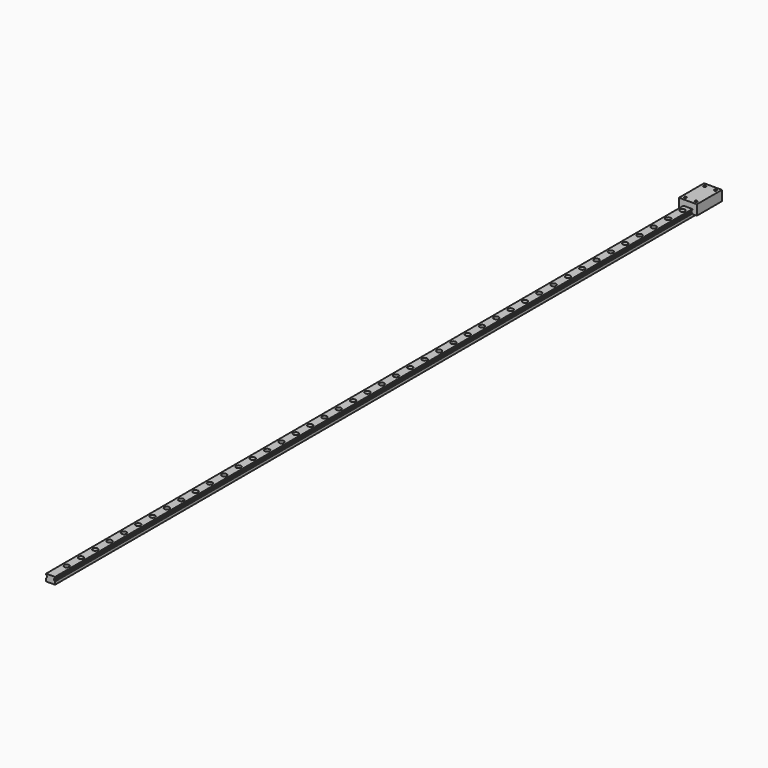
from build123d import *

# Parameters (mm, degrees)
F1_DEPTH       = 1850
F3_D           = 6.6
F3_CBORE_D     = 11.25
F3_CBORE_DEPTH = 6
F4_DEPTH       = 70
F6_D           = 5.5
F6_DEPTH       = 9
F6_TIP         = 1.6523667023


with BuildPart() as f1:
    # F0 (on Front) → F1 (new body)
    with BuildSketch(Plane.XZ):
        Polygon((10, 0), (0, 0), (-10, 0), (-10, -2), (-8.5, -3.5), (-8, -4), (-8, -7), (-8.5, -7.5), (-10, -9), (-10, -10), (-10, -15.5), (0, -15.5), (10, -15.5), (10, -10), (10, -9), (8.5, -7.5), (8, -7), (8, -4), (8.5, -3.5), (10, -2), align=None)
    extrude(amount=F1_DEPTH)

    # F3 (through all)
    with Locations(Plane.XY):
        with Locations((0, -1805), (0, -1765), (0, -1725), (0, -1685), (0, -1645), (0, -1605), (0, -1565), (0, -1525), (0, -1485), (0, -1445), (0, -1405), (0, -1365), (0, -1325), (0, -1285), (0, -1245), (0, -1205), (0, -1165), (0, -1125), (0, -1085), (0, -1045), (0, -1005), (0, -965), (0, -925), (0, -885), (0, -845), (0, -805), (0, -765), (0, -725), (0, -685), (0, -645), (0, -605), (0, -565), (0, -525), (0, -485), (0, -445), (0, -405), (0, -365), (0, -325), (0, -285), (0, -245), (0, -205), (0, -165), (0, -125), (0, -85), (0, -45)):
            CounterBoreHole(F3_D / 2, F3_CBORE_D / 2, F3_CBORE_DEPTH)


with BuildPart() as f4:
    # F0 (on Front) → F4 (new body)
    with BuildSketch(Plane.XZ):
        Polygon((-10, 0), (0, 0), (10, 0), (10, -2), (8.5, -3.5), (8.5, -7.5), (10, -9), (10, -10), (20, -10), (20, 12.5), (-20, 12.5), (-20, -10), (-10, -10), (-10, -9), (-8.5, -7.5), (-8.5, -3.5), (-10, -2), align=None)
    extrude(amount=F4_DEPTH)

    # F6
    with Locations(Plane.XY.offset(12.5)):
        with Locations((-12, -8), (12, -8), (12, -62), (-12, -62)):
            Hole(F6_D / 2, depth=F6_DEPTH)
            with Locations((0, 0, -(F6_DEPTH + F6_TIP / 2))):  # 118° drill point
                Cone(0, F6_D / 2, F6_TIP, mode=Mode.SUBTRACT)


solid = Compound([f1.part, f4.part])
